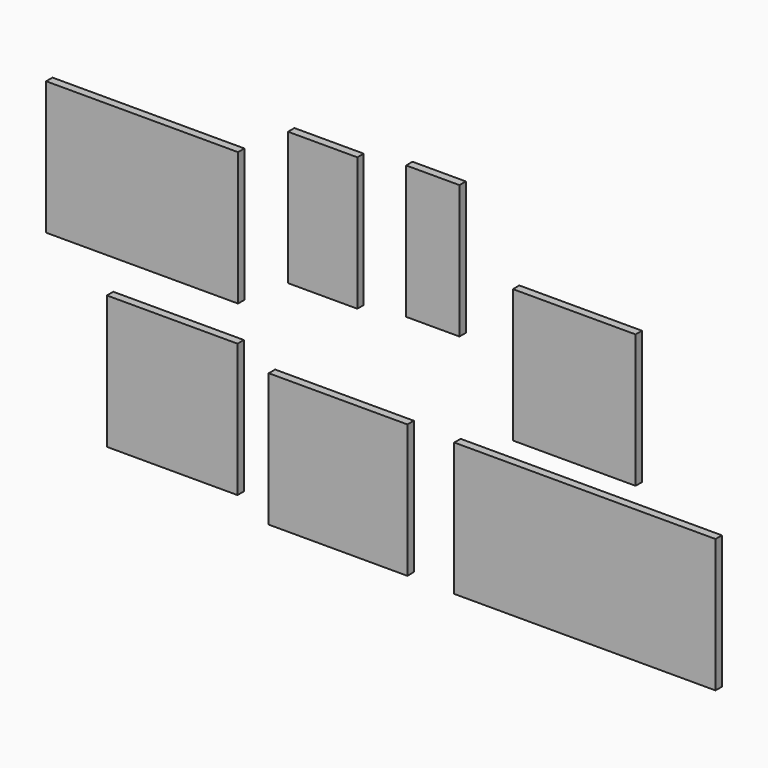
from build123d import *

# Parameters (mm, degrees)
F0_W     = 360
F0_H     = 250
F1_DEPTH = 15
F0_W_2   = 130
F2_DEPTH = 15
F0_W_3   = 100
F3_DEPTH = 15
F0_W_4   = 230
F4_DEPTH = 15
F0_W_5   = 245
F5_DEPTH = 15
F0_W_6   = 260
F6_DEPTH = 15
F0_W_7   = 490
F7_DEPTH = 15


with BuildPart() as f1:
    # F0 (on Front) → F1 (new body)
    with BuildSketch(Plane.XZ):
        with Locations((-444.610708, 72.73683)):
            Rectangle(F0_W, F0_H)
    extrude(amount=F1_DEPTH)


with BuildPart() as f2:
    # F0 (on Front) → F2 (new body)
    with BuildSketch(Plane.XZ):
        with Locations((-105.891193, 136.945741)):
            Rectangle(F0_W_2, F0_H)
    extrude(amount=F2_DEPTH)


with BuildPart() as f3:
    # F0 (on Front) → F3 (new body)
    with BuildSketch(Plane.XZ):
        with Locations((100.601799, 153.355513)):
            Rectangle(F0_W_3, F0_H)
    extrude(amount=F3_DEPTH)


with BuildPart() as f4:
    # F0 (on Front) → F4 (new body)
    with BuildSketch(Plane.XZ):
        with Locations((365.886261, 14.269084)):
            Rectangle(F0_W_4, F0_H)
    extrude(amount=F4_DEPTH)


with BuildPart() as f5:
    # F0 (on Front) → F5 (new body)
    with BuildSketch(Plane.XZ):
        with Locations((-388.127985, -243.801951)):
            Rectangle(F0_W_5, F0_H)
    extrude(amount=F5_DEPTH)


with BuildPart() as f6:
    # F0 (on Front) → F6 (new body)
    with BuildSketch(Plane.XZ):
        with Locations((-77.068175, -273.498029)):
            Rectangle(F0_W_6, F0_H)
    extrude(amount=F6_DEPTH)


with BuildPart() as f7:
    # F0 (on Front) → F7 (new body)
    with BuildSketch(Plane.XZ):
        with Locations((385.82633, -274.769127)):
            Rectangle(F0_W_7, F0_H)
    extrude(amount=F7_DEPTH)


solid = Compound([f1.part, f2.part, f3.part, f4.part, f5.part, f6.part, f7.part])
